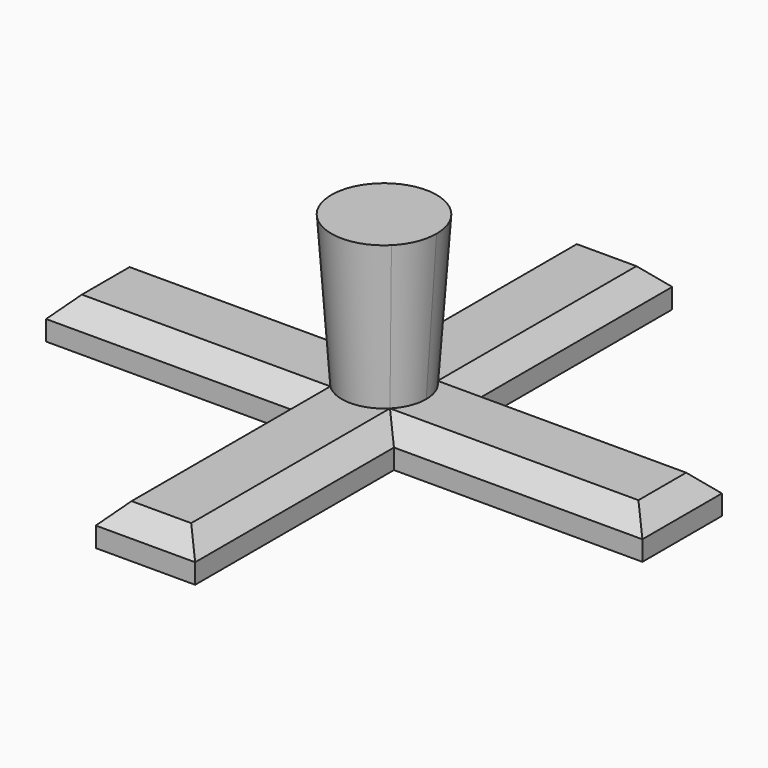
from build123d import *

# Parameters (mm, degrees)
F1_DEPTH = 4
F2_SIZE  = 2
F4_DEPTH = 15
F4_TAPER = -4


with BuildPart() as f1:
    # F0 (on Top) → F1 (new body)
    with BuildSketch(Plane.XY):
        Polygon((5, -30), (5, -5), (30, -5), (30, 5), (5, 5), (5, 30), (-5, 30), (-5, 5), (-30, 5), (-30, -5), (-5, -5), (-5, -30), align=None)
    extrude(amount=F1_DEPTH)

    # F2
    f2_edges = [f1.edges().sort_by_distance(p)[0] for p in [
        (-5, 17.5, 4),
        (0, 30, 4),
        (5, 17.5, 4),
        (-17.5, 5, 4),
        (-17.5, -5, 4),
        (-30, 0, 4),
        (-5, -17.5, 4),
        (0, -30, 4),
        (5, -17.5, 4),
        (17.5, -5, 4),
        (17.5, 5, 4),
        (30, 0, 4),
    ]]
    chamfer(f2_edges, length=F2_SIZE)

    # F3 (on face) → F4 (join)
    with BuildSketch(Plane.XY.offset(4)):
        with BuildLine():
            ThreePointArc((3, -3), (3.9196888946, -1.6235883004), (4.2426406871, 0))
            ThreePointArc((4.2426406871, 0), (3.9196888946, 1.6235883004), (3, 3))
            ThreePointArc((3, 3), (0, 4.2426406871), (-3, 3))
            ThreePointArc((-3, 3), (-4.2426406871, 0), (-3, -3))
            ThreePointArc((-3, -3), (0, -4.2426406871), (3, -3))
        make_face()
    extrude(amount=F4_DEPTH, taper=F4_TAPER)


solid = f1.part
